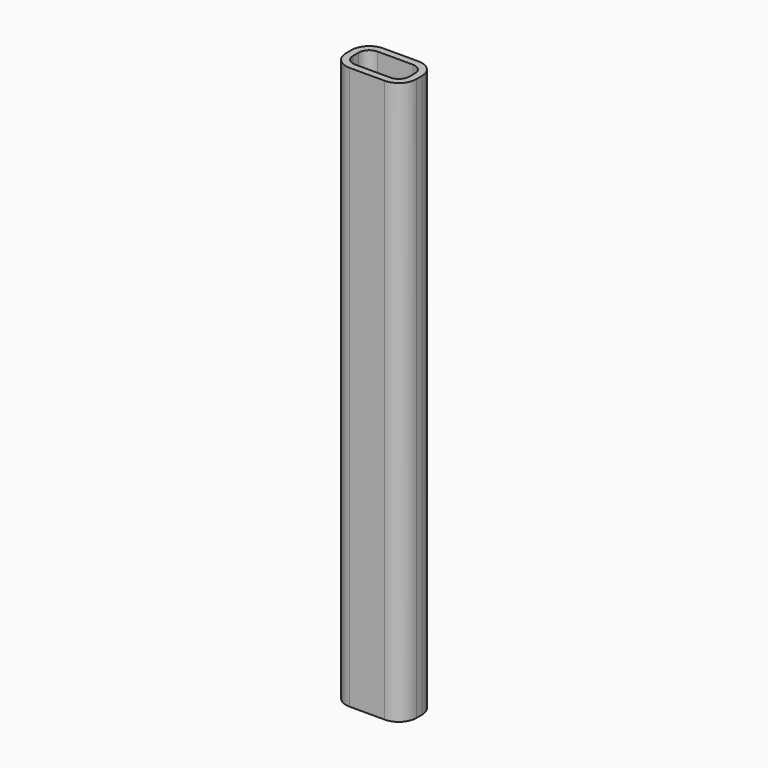
from build123d import *

# Parameters (mm, degrees)
F0_W     = 12.8
F0_H     = 6.4
F1_DEPTH = 1
F0_W_2   = 20
F0_H_2   = 12
F2_DEPTH = 160
F3_R     = 5
F4_T     = -2
F5_DEPTH = 2


with BuildPart() as f1:
    # F0 (on Top) → F1 (new body)
    with BuildSketch(Plane.XY):
        Rectangle(F0_W, F0_H)
    extrude(amount=-F1_DEPTH)

    # F0 (on Top) → F2 (join)
    with BuildSketch(Plane.XY):
        Rectangle(F0_W_2, F0_H_2)
        Rectangle(F0_W, F0_H, mode=Mode.SUBTRACT)
        Rectangle(F0_W, F0_H)
    extrude(amount=F2_DEPTH)

    # F3
    f3_edges = [f1.edges().sort_by_distance(p)[0] for p in [
        (-10, -6, 80),
        (10, -6, 80),
        (10, 6, 80),
        (-10, 6, 80),
    ]]
    fillet(f3_edges, radius=F3_R)

    # F4
    f4_openings = [f1.faces().sort_by_distance(p)[0] for p in [
        (0, 0, 160),
    ]]
    offset(amount=F4_T, openings=f4_openings, kind=Kind.INTERSECTION)

    # F5 (add): a face of the model
    f5_faces = [f1.faces().sort_by_distance(p)[0] for p in [
        (0, 0, 1),
    ]]
    extrude(f5_faces, amount=F5_DEPTH)


solid = f1.part
